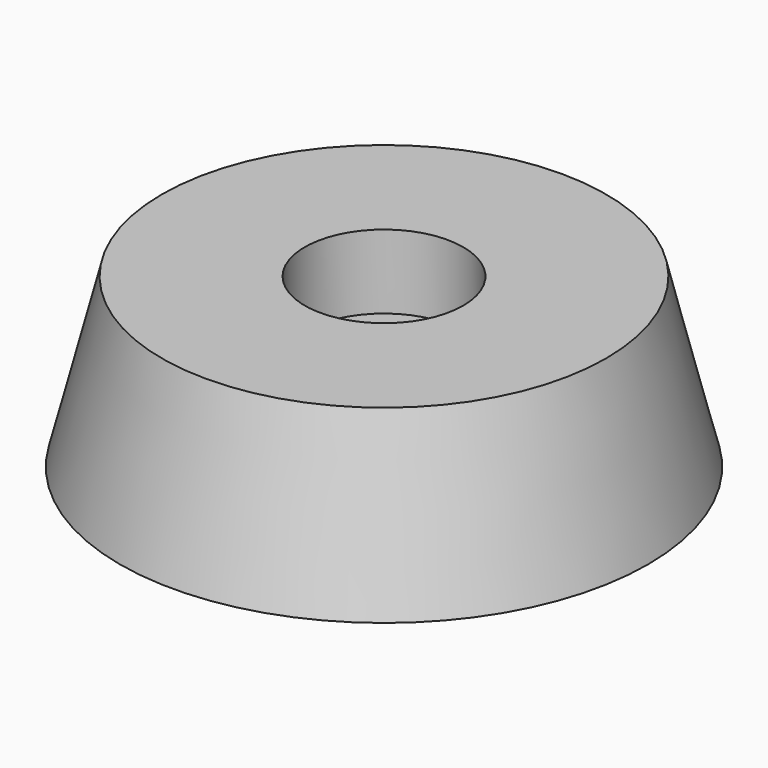
from build123d import *

# Parameters (mm, degrees)
F0_R     = 5
F3_W     = 26.240948
F3_H     = 20
F4_DEPTH = 12.5
F5_R     = 1.5
F6_DEPTH = 1.4


with BuildPart() as f2:
    # F0 (on Top) → F2 section 0
    with BuildSketch(Plane.XY, mode=Mode.PRIVATE) as f2_s0:
        Circle(F0_R)
    loft([f2_s0.sketch, Vertex(0, 0, 19.961977)])

    # F3 (on Right) → F4 (cut, symmetric)
    with BuildSketch(Plane.YZ):
        with Locations((0, 13.174092)):
            Rectangle(F3_W, F3_H)
    extrude(amount=F4_DEPTH, both=True, mode=Mode.SUBTRACT)

    # F5 (on face) → F6 (cut)
    with BuildSketch(Plane.XY.offset(3.174092)):
        Circle(F5_R)
    extrude(amount=-F6_DEPTH, mode=Mode.SUBTRACT)


solid = f2.part
